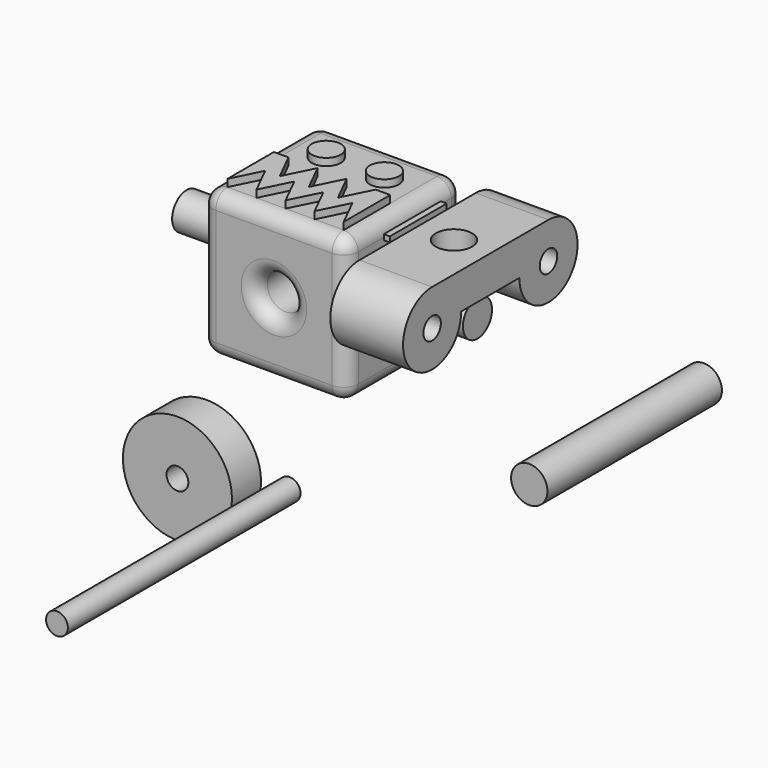
from build123d import *

# Parameters (mm, degrees)
F0_R      = 19.05
F0_R_2    = 3.81
F1_DEPTH  = 12.7
F2_R      = 3.81
F3_DEPTH  = 101.6
F4_R      = 3.81
F5_DEPTH  = 25.4
F6_R      = 6.35
F7_DEPTH  = 96.399695
F8_W      = 6.35
F8_H      = 76.2
F10_W     = 25.4
F10_H     = 24.847228
F10_R     = 6.35
F11_DEPTH = 1.905
F12_W     = 50.8
F12_H     = 50.8
F12_R     = 6.35
F13_DEPTH = 50.8
F14_R     = 6.35
F15_DEPTH = 25.4
F16_R     = 5.08
F17_R     = 6.35
F18_DEPTH = 25.4
F19_R     = 6.35
F20_DEPTH = 25.4
F21_R     = 5.08
F22_DEPTH = 2.54


with BuildPart() as f1:
    # F0 (on Front) → F1 (new body)
    with BuildSketch(Plane.XZ):
        with Locations((-50.972842, -29.668404)):
            Circle(F0_R)
        with Locations((-50.972842, -29.668404)):
            Circle(F0_R_2, mode=Mode.SUBTRACT)
    extrude(amount=F1_DEPTH)


with BuildPart() as f3:
    # F2 (on Front) → F3 (new body)
    with BuildSketch(Plane.XZ):
        with Locations((-21.935683, -28.721539)):
            Circle(F2_R)
    extrude(amount=F3_DEPTH)


with BuildPart() as f5:
    # F4 (on Right) → F5 (new body)
    with BuildSketch(Plane.YZ):
        with BuildLine():
            ThreePointArc((53.867258, 22.280292), (62.847514, 26.000035), (66.567258, 34.980292))
            ThreePointArc((66.567258, 34.980292), (62.847514, 43.960548), (53.867258, 47.680292))
            ThreePointArc((53.867258, 47.680292), (44.887002, 43.960548), (41.167258, 34.980292))
            ThreePointArc((41.167258, 34.980292), (44.887002, 26.000035), (53.867258, 22.280292))
        make_face()
        with Locations((53.867258, 34.980292)):
            Circle(F4_R, mode=Mode.SUBTRACT)
        with BuildLine():
            ThreePointArc((15.767258, 34.980292), (12.047514, 43.960548), (3.067258, 47.680292))
            ThreePointArc((3.067258, 47.680292), (-9.632742, 34.980292), (3.067258, 22.280292))
            ThreePointArc((3.067258, 22.280292), (12.047514, 26.000035), (15.767258, 34.980292))
        make_face()
        with Locations((3.067258, 34.980292)):
            Circle(F4_R, mode=Mode.SUBTRACT)
        with BuildLine():
            ThreePointArc((41.167258, 34.980292), (44.887002, 43.960548), (53.867258, 47.680292))
            Line((53.867258, 47.680292), (3.067258, 47.680292))
            ThreePointArc((3.067258, 47.680292), (12.047514, 43.960548), (15.767258, 34.980292))
            Line((15.767258, 34.980292), (41.167258, 34.980292))
        make_face()
    extrude(amount=F5_DEPTH)

    # F6 (on face) → F7 (cut, through all)
    with BuildSketch(Plane.XY.offset(47.680292)):
        with Locations((12.7, 28.467258)):
            Circle(F6_R)
    extrude(amount=-F7_DEPTH, mode=Mode.SUBTRACT)


with BuildPart() as f9:
    # F8 (on Top) → F9 (revolve)
    with BuildSketch(Plane.XY):
        with Locations((64.957304, 38.1)):
            Rectangle(F8_W, F8_H)
    revolve(axis=Axis((61.782304, 38.1, 0), (0, -1, 0)))


with BuildPart() as f11:
    # F10 (on face) → F11 (new body)
    with BuildSketch(Plane.XY.offset(47.680292)):
        with Locations((-12.7, 28.768012)):
            Rectangle(F10_W, F10_H)
        with Locations((-12.7, 28.768012)):
            Circle(F10_R, mode=Mode.SUBTRACT)
    extrude(amount=F11_DEPTH)


with BuildPart() as f13:
    # F12 (on Front) → F13 (new body)
    with BuildSketch(Plane.XZ):
        with Locations((-27.419608, 28.385414)):
            Rectangle(F12_W, F12_H)
        with Locations((-27.419608, 28.385414)):
            Circle(F12_R, mode=Mode.SUBTRACT)
        with Locations((-27.419608, 28.385414)):
            Circle(F12_R)
    extrude(amount=-F13_DEPTH)

    # F14 (on face) → F15 (cut)
    with BuildSketch(Plane.XZ):
        with Locations((-27.419608, 28.385414)):
            Circle(F14_R)
    extrude(amount=-F15_DEPTH, mode=Mode.SUBTRACT)

    # F16
    f16_edges = [f13.edges().sort_by_distance(p)[0] for p in [
        (-27.419608, 0, 53.785414),
        (-52.819608, 25.4, 53.785414),
        (-52.819608, 0, 28.385414),
        (-52.819608, 25.4, 2.985414),
        (-27.419608, 0, 2.985414),
        (-2.019608, 0, 28.385414),
        (-33.769608, 0, 28.385414),
        (-2.019608, 25.4, 2.985414),
        (-27.419608, 50.8, 53.785414),
        (-2.019608, 25.4, 53.785414),
        (-2.019608, 50.8, 28.385414),
        (-52.819608, 50.8, 28.385414),
        (-27.419608, 50.8, 2.985414),
    ]]
    fillet(f16_edges, radius=F16_R)

    # F17 (on face) → F18 (join)
    with BuildSketch(Plane(origin=(-52.819608, 0, 0), x_dir=(0, -1, 0), z_dir=(-1, 0, 0))):
        with Locations((-25.4, 28.385414)):
            Circle(F17_R)
    extrude(amount=F18_DEPTH)

    # F19 (on face) → F20 (join)
    with BuildSketch(Plane.YZ.offset(-2.019608)):
        with Locations((25.4, 28.385414)):
            Circle(F19_R)
    extrude(amount=F20_DEPTH)

    # F21 (on face) → F22 (join)
    with BuildSketch(Plane.XY.offset(53.785414)):
        with Locations((-37.579608, 35.56)):
            Circle(F21_R)
        with Locations((-17.259608, 35.56)):
            Circle(F21_R)
        Polygon((-42.659608, 25.4), (-47.739608, 25.4), (-47.739608, 5.08), (-42.659608, 15.24), (-37.579608, 5.08), (-32.499608, 15.24), (-27.419608, 5.08), (-22.339608, 15.24), (-17.259608, 5.08), (-12.179608, 15.24), (-7.099608, 5.08), (-7.099608, 25.4), (-12.179608, 25.4), (-17.259608, 15.24), (-22.339608, 25.4), (-27.419608, 15.24), (-32.499608, 25.4), (-37.579608, 15.24), align=None)
    extrude(amount=F22_DEPTH)


solid = Compound([f1.part, f3.part, f5.part, f9.part, f11.part, f13.part])
